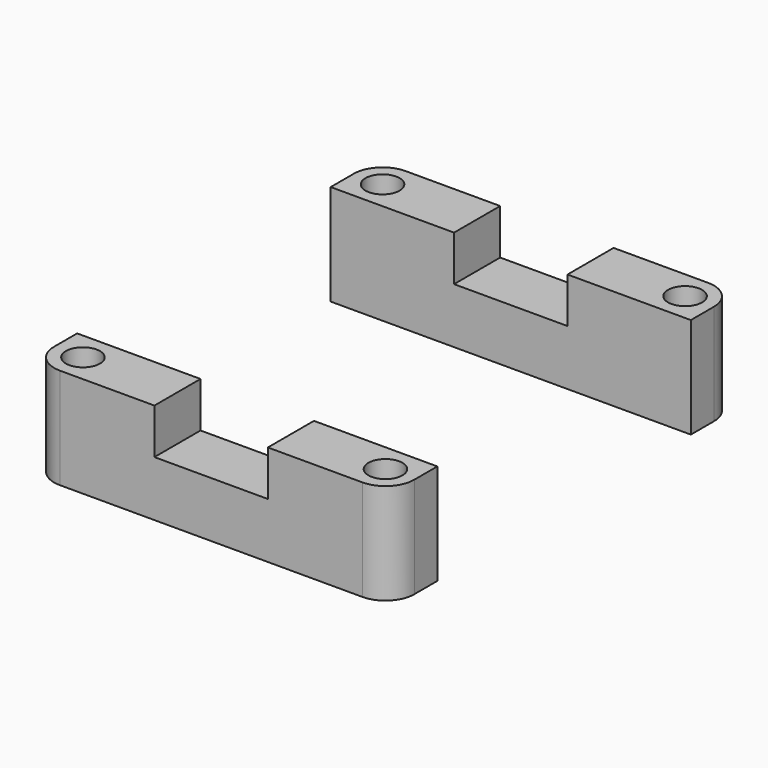
from build123d import *

# Parameters (mm, degrees)
F0_R     = 1.5
F1_DEPTH = 8.89
F2_W     = 10
F2_H     = 4
F3_DEPTH = 38.101


with BuildPart() as f1:
    # F0 (on Top) → F1 (new body)
    with BuildSketch(Plane.XY):
        with BuildLine():
            Line((-15.875, 15.706331), (15.875, 15.706331))
            Line((15.875, 15.706331), (15.875, 18.246331))
            ThreePointArc((15.875, 18.246331), (15.131051, 20.042382), (13.335, 20.786331))
            Line((13.335, 20.786331), (-13.335, 20.786331))
            ThreePointArc((-13.335, 20.786331), (-15.131051, 20.042382), (-15.875, 18.246331))
            Line((-15.875, 18.246331), (-15.875, 15.706331))
        make_face()
        with Locations((-13.335, 18.246331)):
            Circle(F0_R, mode=Mode.SUBTRACT)
        with Locations((13.335, 18.246331)):
            Circle(F0_R, mode=Mode.SUBTRACT)
        with BuildLine():
            Line((-13.335, -17.313669), (13.335, -17.313669))
            ThreePointArc((13.335, -17.313669), (15.131051, -16.569721), (15.875, -14.773669))
            Line((15.875, -14.773669), (15.875, -12.233669))
            Line((15.875, -12.233669), (-15.875, -12.233669))
            Line((-15.875, -12.233669), (-15.875, -14.773669))
            ThreePointArc((-15.875, -14.773669), (-15.131051, -16.569721), (-13.335, -17.313669))
        make_face()
        with Locations((-13.335, -14.773669)):
            Circle(F0_R, mode=Mode.SUBTRACT)
        with Locations((13.335, -14.773669)):
            Circle(F0_R, mode=Mode.SUBTRACT)
    extrude(amount=F1_DEPTH)

    # F2 (on face) → F3 (cut, through all)
    with BuildSketch(Plane.XZ.offset(17.313669)):
        with Locations((0, 6.89)):
            Rectangle(F2_W, F2_H)
    extrude(amount=-F3_DEPTH, mode=Mode.SUBTRACT)


solid = f1.part
